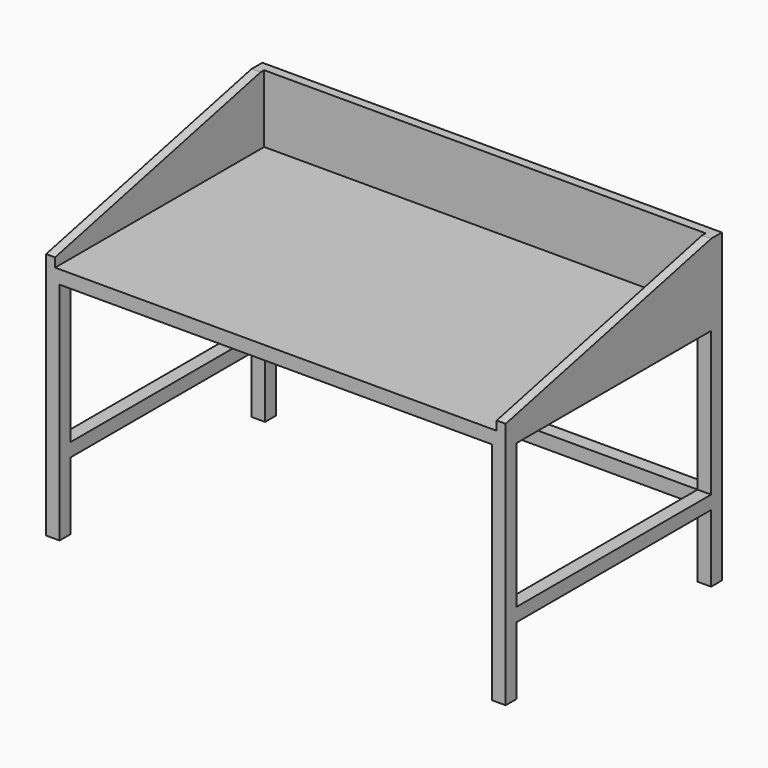
from build123d import *

# Parameters (mm, degrees)
F0_W      = 1020
F0_H      = 600
F1_DEPTH  = 30
F3_DEPTH  = 150
F5_DEPTH  = 2000
F6_W      = 30
F6_H      = 30
F7_DEPTH  = 500
F8_W      = 30
F8_H      = 30
F9_DEPTH  = 540
F10_W     = 30
F10_H     = 30
F11_DEPTH = 540
F12_W     = 30
F12_H     = 30
F13_DEPTH = 960


with BuildPart() as f1:
    # F0 (on Top) → F1 (new body)
    with BuildSketch(Plane.XY):
        with Locations((1.982912, -51.863651)):
            Rectangle(F0_W, F0_H)
    extrude(amount=F1_DEPTH)

    # F2 (on face) → F3 (join)
    with BuildSketch(Plane.XY.offset(30)):
        Polygon((-508.017088, 248.136349), (-508.017088, -351.863651), (-488.017088, -351.863651), (-488.017088, 228.136349), (491.982912, 228.136349), (491.982912, -351.863651), (511.982912, -351.863651), (511.982912, 248.136349), align=None)
    extrude(amount=F3_DEPTH)

    # F4 (on face) → F5 (cut)
    with BuildSketch(Plane(origin=(-508.017088, 0, 0), x_dir=(0, -1, 0), z_dir=(-1, 0, 0))):
        Polygon((351.863651, 180), (-218.136349, 180), (351.863651, 50), align=None)
    extrude(amount=-F5_DEPTH, mode=Mode.SUBTRACT)

    # F6 (on face) → F7 (join)
    with BuildSketch(Plane(origin=(0, 0, 0), x_dir=(1, 0, 0), z_dir=(0, 0, -1))):
        with Locations((-493.017088, 336.863651)):
            Rectangle(F6_W, F6_H)
        with Locations((-493.017088, -233.136349)):
            Rectangle(F6_W, F6_H)
        with Locations((496.982912, 336.863651)):
            Rectangle(F6_W, F6_H)
        with Locations((496.982912, -233.136349)):
            Rectangle(F6_W, F6_H)
    extrude(amount=F7_DEPTH)

    # F8 (on face) → F9 (join, through all)
    with BuildSketch(Plane(origin=(0, -321.863651, 0), x_dir=(-1, 0, 0), z_dir=(0, 1, 0))):
        with Locations((493.017088, -335)):
            Rectangle(F8_W, F8_H)
    extrude(amount=F9_DEPTH)

    # F10 (on face) → F11 (join, through all)
    with BuildSketch(Plane.XZ.offset(-218.136349)):
        with Locations((496.982912, -335)):
            Rectangle(F10_W, F10_H)
    extrude(amount=F11_DEPTH)

    # F12 (on face) → F13 (join, through all)
    with BuildSketch(Plane(origin=(481.982912, 0, 0), x_dir=(0, -1, 0), z_dir=(-1, 0, 0))):
        with Locations((-233.136349, -335)):
            Rectangle(F12_W, F12_H)
    extrude(amount=F13_DEPTH)


solid = f1.part
